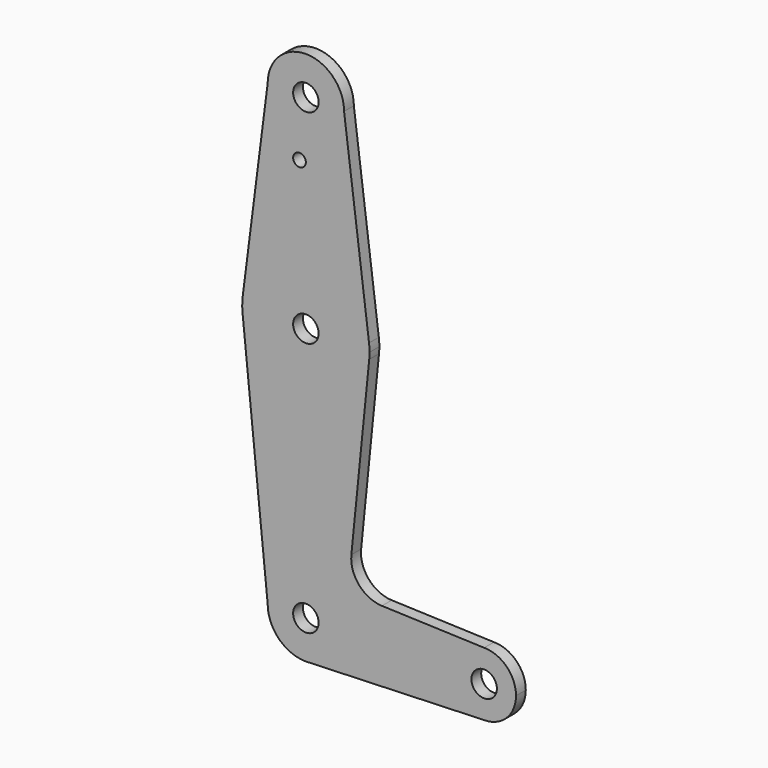
from build123d import *

# Parameters (mm, degrees)
F0_R     = 3.175
F0_R_2   = 1.5875
F1_DEPTH = 3.048


with BuildPart() as f1:
    # F0 (on Front) → F1 (new body)
    with BuildSketch(Plane.XZ):
        with BuildLine():
            ThreePointArc((44.45, -7.9375), (50.06266, -5.61266), (52.3875, 0))
            ThreePointArc((52.3875, 0), (50.06266, 5.61266), (44.45, 7.9375))
            ThreePointArc((44.45, 7.9375), (36.5125, 0), (44.45, -7.9375))
        make_face()
        with Locations((44.45, 0)):
            Circle(F0_R, mode=Mode.SUBTRACT)
        with BuildLine():
            ThreePointArc((-15.747457, 65.508289), (-15.873588, 63.711757), (-15.795426, 61.9125))
            ThreePointArc((-15.795426, 61.9125), (0, 47.625), (15.795426, 61.9125))
            ThreePointArc((15.795426, 61.9125), (15.855094, 62.705253), (15.875, 63.5))
            ThreePointArc((15.875, 63.5), (15.843082, 64.506168), (15.747457, 65.508289))
            ThreePointArc((15.747457, 65.508289), (0, 79.375), (-15.747457, 65.508289))
        make_face()
        with Locations((0, 63.5)):
            Circle(F0_R, mode=Mode.SUBTRACT)
        with BuildLine():
            ThreePointArc((44.45, -7.9375), (36.5125, 0), (44.45, 7.9375))
            Line((44.45, 7.9375), (18.966474, 8.851134))
            ThreePointArc((18.966474, 8.851134), (13.260686, 11.569571), (11.340972, 17.59125))
            Line((11.340972, 17.59125), (15.795426, 61.9125))
            ThreePointArc((15.795426, 61.9125), (0, 47.625), (-15.795426, 61.9125))
            Line((-15.795426, 61.9125), (-9.525, 0))
            ThreePointArc((-9.525, 0), (0, 9.525), (9.525, 0))
            ThreePointArc((9.525, 0), (6.97129, -6.490511), (0.67949, -9.500732))
            Line((0.67949, -9.500732), (44.45, -7.9375))
        make_face()
        with BuildLine():
            Line((0, -9.525), (0.67949, -9.500732))
            ThreePointArc((0.67949, -9.500732), (6.97129, -6.490511), (9.525, 0))
            ThreePointArc((9.525, 0), (0, 9.525), (-9.525, 0))
            ThreePointArc((-9.525, 0), (-6.735192, -6.735192), (0, -9.525))
        make_face()
        Circle(F0_R, mode=Mode.SUBTRACT)
        with BuildLine():
            ThreePointArc((0, -9.525), (0.339962, -9.518931), (0.67949, -9.500732))
            Line((0.67949, -9.500732), (0, -9.525))
        make_face()
        with BuildLine():
            Line((-9.525, 114.3), (-15.747457, 65.508289))
            ThreePointArc((-15.747457, 65.508289), (0, 79.375), (15.747457, 65.508289))
            Line((15.747457, 65.508289), (9.525, 114.3))
            ThreePointArc((9.525, 114.3), (0, 104.775), (-9.525, 114.3))
        make_face()
        with Locations((-1.5875, 100.0252)):
            Circle(F0_R_2, mode=Mode.SUBTRACT)
        with BuildLine():
            ThreePointArc((9.525, 114.3), (0, 123.825), (-9.525, 114.3))
            ThreePointArc((-9.525, 114.3), (0, 104.775), (9.525, 114.3))
        make_face()
        with Locations((0, 114.3)):
            Circle(F0_R, mode=Mode.SUBTRACT)
    extrude(amount=F1_DEPTH)


solid = f1.part
